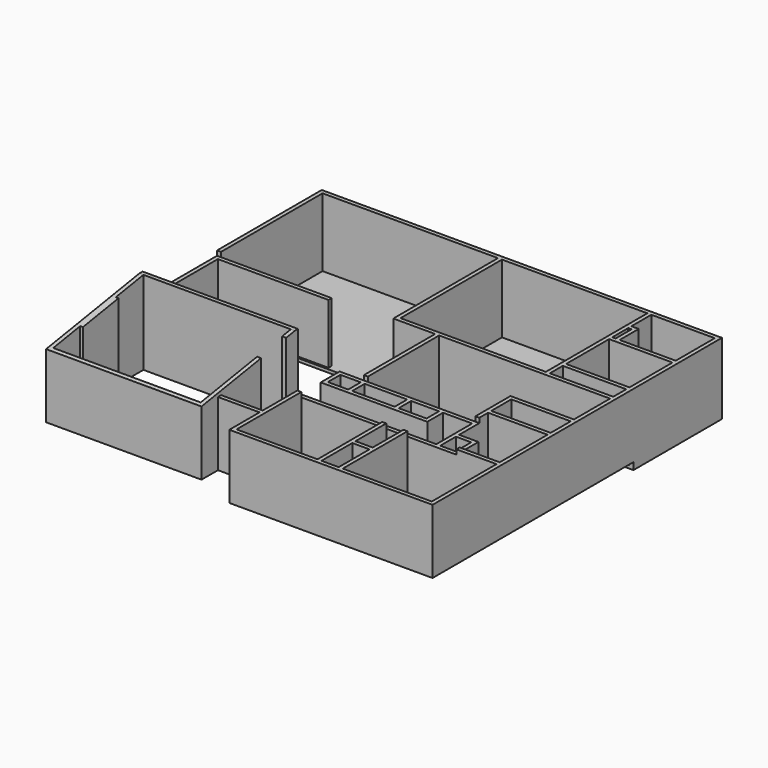
from build123d import *

# Parameters (mm, degrees)
F5_W      = 0.8128
F5_H      = 13.4112
F6_DEPTH  = 25.1968
F8_DEPTH  = 46.8002
F5_W_2    = 19.5072
F5_H_2    = 1.2
F5_W_3    = 5.1816
F5_H_3    = 11.592
F5_W_4    = 17.9008
F5_H_4    = 7.5376
F5_W_5    = 19.1008
F5_H_5    = 4.896
F5_W_6    = 1.2
F5_H_6    = 6.004279983
F9_DEPTH  = 19.4056
F5_W_7    = 4.6104
F5_H_7    = 5.8928
F5_W_8    = 6.1152
F5_H_8    = 4.712
F5_W_9    = 12.8016
F5_W_10   = 8.3888
F5_H_9    = 7.0104
F10_DEPTH = 17.9832
F11_DEPTH = 1.2192
F12_W     = 52.832
F12_H     = 38.2016
F12_W_2   = 1.0041694948
F12_H_2   = 6.004279983
F12_W_3   = 19.1008
F12_H_3   = 16.2133753487
F13_DEPTH = 0.913


with BuildPart() as f6:
    # F5 (on Top) → F6 (new body)
    with BuildSketch(Plane.XY):
        Polygon((0, 36.3344), (0, 0), (46.7992, 0), (46.7992, 1.2), (46.7992, 6.1976), (46.7992, 7.3976), (46.7992, 22.4344), (45.5992, 22.4344), (45.5992, 1.2), (1.2, 1.2), (1.2, 11.36), (1.2, 24.7712), (1.2, 35.1344), (45.5992, 35.1344), (45.5992, 31.864), (46.7992, 31.864), (46.7992, 36.3344), (15.2016, 36.3344), (14.0016, 36.3344), (1.2, 36.3344), align=None)
        with Locations((1.6064, 18.0656)):
            Rectangle(F5_W, F5_H)
    extrude(amount=F6_DEPTH)

    # F7 (on face) → F8 (cut, through all)
    with BuildSketch(Plane(origin=(0, 0, 0), x_dir=(0, -1, 0), z_dir=(-1, 0, 0))):
        Polygon((-35.1344, 25.1968), (0, 19.4056), (0, 25.1968), align=None)
    extrude(amount=-F8_DEPTH, mode=Mode.SUBTRACT)

    # F5 (on Top) → F9 (join)
    with BuildSketch(Plane.XY):
        Polygon((0, 103.7584), (0, 64.3568), (1.2, 64.3568), (1.2, 102.5584), (18.0656, 102.5584), (18.0656, 103.7584), align=None)
        with Locations((27.8192, 103.1584)):
            Rectangle(F5_W_2, F5_H_2)
        Polygon((120.5032, 103.7584), (37.5728, 103.7584), (37.5728, 102.5584), (54.032, 102.5584), (54.032, 64.3568), (55.232, 64.3568), (55.232, 102.5584), (99.0024, 102.5584), (99.0024, 93.8704553318), (100.2024, 93.8704553318), (101.2065694948, 93.8704553318), (101.2065694948, 87.8661753487), (100.2024, 87.8661753487), (99.0024, 87.8661753487), (99.0024, 70.4528), (100.2024, 70.4528), (100.2024, 86.6661753487), (102.4065694948, 86.6661753487), (119.3032, 86.6661753487), (119.3032, 70.4528), (120.5032, 70.4528), align=None)
        Polygon((100.2024, 95.0704553318), (100.2024, 102.5584), (119.3032, 102.5584), (119.3032, 87.8661753487), (102.4065694948, 87.8661753487), (102.4065694948, 95.0704553318), align=None, mode=Mode.SUBTRACT)
        Polygon((46.7992, 7.3976), (46.7992, 6.1976), (59.3152, 6.1976), (59.3152, -3.9624), (59.3152, -5.1624), (60.5152, -5.1624), (119.3032, -5.1624), (120.5032, -5.1624), (120.5032, 70.4528), (119.3032, 70.4528), (100.2024, 70.4528), (99.0024, 70.4528), (99.0024, 64.3568), (55.232, 64.3568), (54.032, 64.3568), (54.032, 63.1568), (66.6304, 63.1568), (66.6304, 36.3344), (67.8304, 36.3344), (67.8304, 63.1568), (119.3032, 63.1568), (119.3032, 49.5424), (100.2024, 49.5424), (100.2024, 36.3344), (101.4024, 36.3344), (101.4024, 39.6048), (119.3032, 39.6048), (119.3032, 21.6216), (107.2128, 21.6216), (107.2128, 20.4216), (119.3032, 20.4216), (119.3032, -3.9624), (92.4808, -3.9624), (92.4808, 20.4216), (91.2808, 20.4216), (91.2808, 8.8296), (86.0992, 8.8296), (86.0992, 20.4216), (84.8992, 20.4216), (84.8992, -3.9624), (60.5152, -3.9624), (60.5152, 20.4216), (59.3152, 20.4216), (59.3152, 7.3976), align=None)
        with Locations((88.69, 1.8336)):
            Rectangle(F5_W_3, F5_H_3, mode=Mode.SUBTRACT)
        with Locations((110.3528, 44.5736)):
            Rectangle(F5_W_4, F5_H_4, mode=Mode.SUBTRACT)
        with Locations((109.7528, 66.8048)):
            Rectangle(F5_W_5, F5_H_5, mode=Mode.SUBTRACT)
        with Locations((99.6024, 90.8683153403)):
            Rectangle(F5_W_6, F5_H_6)
        Polygon((46.7992, 7.3976), (46.7992, 6.1976), (59.3152, 6.1976), (59.3152, -3.9624), (59.3152, -5.1624), (60.5152, -5.1624), (119.3032, -5.1624), (120.5032, -5.1624), (120.5032, 70.4528), (119.3032, 70.4528), (100.2024, 70.4528), (99.0024, 70.4528), (99.0024, 64.3568), (55.232, 64.3568), (54.032, 64.3568), (54.032, 63.1568), (66.6304, 63.1568), (66.6304, 36.3344), (67.8304, 36.3344), (67.8304, 63.1568), (119.3032, 63.1568), (119.3032, 49.5424), (100.2024, 49.5424), (100.2024, 36.3344), (101.4024, 36.3344), (101.4024, 39.6048), (119.3032, 39.6048), (119.3032, 21.6216), (107.2128, 21.6216), (107.2128, 20.4216), (119.3032, 20.4216), (119.3032, -3.9624), (92.4808, -3.9624), (92.4808, 20.4216), (91.2808, 20.4216), (91.2808, 8.8296), (86.0992, 8.8296), (86.0992, 20.4216), (84.8992, 20.4216), (84.8992, -3.9624), (60.5152, -3.9624), (60.5152, 20.4216), (59.3152, 20.4216), (59.3152, 7.3976), align=None)
        with Locations((88.69, 1.8336)):
            Rectangle(F5_W_3, F5_H_3, mode=Mode.SUBTRACT)
        with Locations((110.3528, 44.5736)):
            Rectangle(F5_W_4, F5_H_4, mode=Mode.SUBTRACT)
        with Locations((109.7528, 66.8048)):
            Rectangle(F5_W_5, F5_H_5, mode=Mode.SUBTRACT)
    extrude(amount=F9_DEPTH)

    # F5 (on Top) → F10 (join)
    with BuildSketch(Plane.XY):
        Polygon((0, 64.3568), (0, 36.3344), (1.2, 36.3344), (1.2, 63.1568), (34.5248, 63.1568), (34.5248, 64.3568), (1.2, 64.3568), align=None)
        Polygon((59.3152, 21.6216), (59.3152, 20.4216), (60.5152, 20.4216), (84.8992, 20.4216), (86.0992, 20.4216), (91.2808, 20.4216), (92.4808, 20.4216), (107.2128, 20.4216), (107.2128, 21.6216), (107.2128, 28.7144), (101.4024, 28.7144), (101.4024, 36.3344), (100.2024, 36.3344), (67.8304, 36.3344), (66.6304, 36.3344), (59.3152, 36.3344), (59.3152, 29.2224), (91.4208, 29.2224), (91.4208, 35.1344), (100.2024, 35.1344), (100.2024, 21.6216), align=None)
        with Locations((103.7076, 24.568)):
            Rectangle(F5_W_7, F5_H_7, mode=Mode.SUBTRACT)
        with Locations((63.5728, 32.7784)):
            Rectangle(F5_W_8, F5_H_8, mode=Mode.SUBTRACT)
        with Locations((74.2312, 32.7784)):
            Rectangle(F5_W_9, F5_H_8, mode=Mode.SUBTRACT)
        with Locations((86.0264, 32.7784)):
            Rectangle(F5_W_10, F5_H_8, mode=Mode.SUBTRACT)
        with Locations((14.6016, 39.8396)):
            Rectangle(F5_W_6, F5_H_9)
    extrude(amount=F10_DEPTH)

    # F5 (on Top) → F11 (join)
    with BuildSketch(Plane.XY):
        Polygon((120.5032, 103.7584), (37.5728, 103.7584), (37.5728, 102.5584), (54.032, 102.5584), (54.032, 64.3568), (55.232, 64.3568), (55.232, 102.5584), (99.0024, 102.5584), (99.0024, 93.8704553318), (100.2024, 93.8704553318), (101.2065694948, 93.8704553318), (101.2065694948, 87.8661753487), (100.2024, 87.8661753487), (99.0024, 87.8661753487), (99.0024, 70.4528), (100.2024, 70.4528), (100.2024, 86.6661753487), (102.4065694948, 86.6661753487), (119.3032, 86.6661753487), (119.3032, 70.4528), (120.5032, 70.4528), align=None)
        Polygon((100.2024, 95.0704553318), (100.2024, 102.5584), (119.3032, 102.5584), (119.3032, 87.8661753487), (102.4065694948, 87.8661753487), (102.4065694948, 95.0704553318), align=None, mode=Mode.SUBTRACT)
        with Locations((27.8192, 103.1584)):
            Rectangle(F5_W_2, F5_H_2)
        Polygon((0, 103.7584), (0, 64.3568), (1.2, 64.3568), (1.2, 102.5584), (18.0656, 102.5584), (18.0656, 103.7584), align=None)
        with Locations((99.6024, 90.8683153403)):
            Rectangle(F5_W_6, F5_H_6)
    extrude(amount=-F11_DEPTH)

    # F12 (on face) → F13 (join)
    with BuildSketch(Plane(origin=(0, 0, -1.2192), x_dir=(1, 0, 0), z_dir=(0, 0, -1))):
        with Locations((27.616, -83.4576)):
            Rectangle(F12_W, F12_H)
        Polygon((99.0024, -64.3568), (55.232, -64.3568), (55.232, -102.5584), (99.0024, -102.5584), (99.0024, -70.4528), align=None)
        Polygon((1.2, -64.3568), (0, -64.3568), (0, -103.7584), (120.5032, -103.7584), (120.5032, -70.4528), (119.3032, -70.4528), (119.3032, -86.6661753487), (100.2024, -86.6661753487), (100.2024, -70.4528), (99.0024, -70.4528), (99.0024, -102.5584), (55.232, -102.5584), (55.232, -64.3568), (54.032, -64.3568), (54.032, -102.5584), (1.2, -102.5584), align=None)
        Polygon((119.3032, -102.5584), (100.2024, -102.5584), (100.2024, -95.0704553318), (102.4065694948, -95.0704553318), (102.4065694948, -87.8661753487), (119.3032, -87.8661753487), align=None, mode=Mode.SUBTRACT)
        with Locations((100.7044847474, -90.8683153403)):
            Rectangle(F12_W_2, F12_H_2, mode=Mode.SUBTRACT)
        with Locations((109.7528, -78.5594876744)):
            Rectangle(F12_W_3, F12_H_3)
        Polygon((100.2024, -95.0704553318), (100.2024, -102.5584), (119.3032, -102.5584), (119.3032, -87.8661753487), (102.4065694948, -87.8661753487), (102.4065694948, -95.0704553318), align=None)
    extrude(amount=F13_DEPTH)


solid = f6.part
